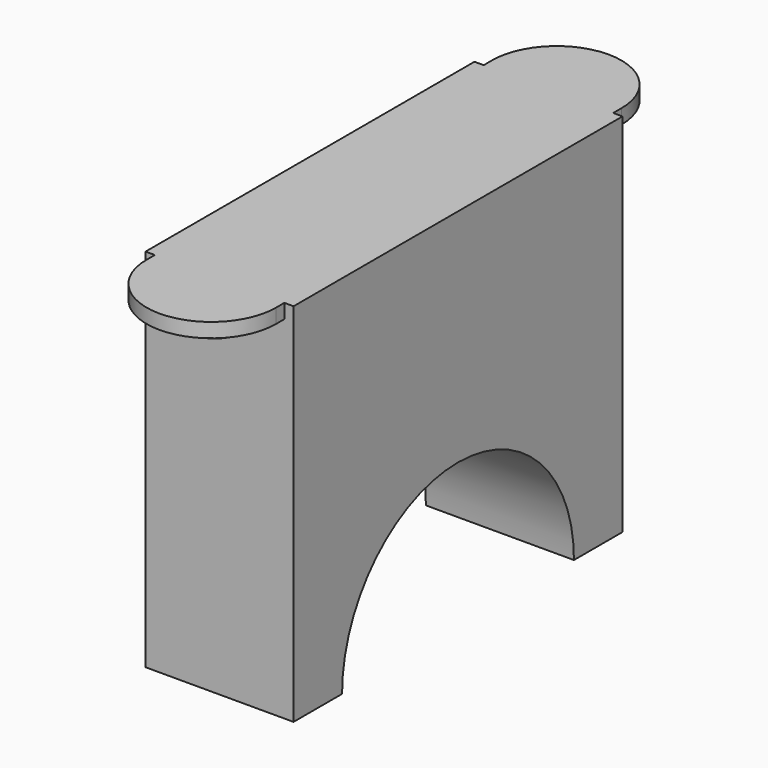
from build123d import *

# Parameters (mm, degrees)
F0_W      = 36
F0_H      = 100
F1_DEPTH  = 89
F2_R      = 10.25
F3_DEPTH  = 25
F4_R      = 35.25
F5_DEPTH  = 27.5
F6_R      = 15.75
F7_DEPTH  = 3.5
F8_W      = 31.5
F8_H      = 105
F9_DEPTH  = 3.5
F10_R     = 8
F11_DEPTH = 8
F13_D     = 6.7564
F13_DEPTH = 26
F13_TIP   = 2.0298273432
F15_D     = 6.7564
F15_DEPTH = 26
F15_TIP   = 2.0298273432


with BuildPart() as f1:
    # F0 (on Top) → F1 (new body)
    with BuildSketch(Plane.XY):
        Rectangle(F0_W, F0_H)
    extrude(amount=F1_DEPTH)

    # F2 (on Front) → F3 (cut, symmetric)
    with BuildSketch(Plane.XZ):
        Circle(F2_R)
    extrude(amount=F3_DEPTH, both=True, mode=Mode.SUBTRACT)

    # F4 (on Right) → F5 (cut, symmetric)
    with BuildSketch(Plane.YZ):
        Circle(F4_R)
    extrude(amount=F5_DEPTH, both=True, mode=Mode.SUBTRACT)

    # F6 (on face) → F7 (join)
    with BuildSketch(Plane.XY.offset(89)):
        with Locations((0, 52.5)):
            Circle(F6_R)
        with Locations((0, -52.5)):
            Circle(F6_R)
    extrude(amount=-F7_DEPTH)

    # F8 (on face) → F9 (join)
    with BuildSketch(Plane.XY.offset(89)):
        Rectangle(F8_W, F8_H)
    extrude(amount=-F9_DEPTH)

    # F10 (on face) → F11 (join)
    with BuildSketch(Plane.XY.offset(89)):
        with Locations((0, 51.5)):
            Circle(F10_R)
        with Locations((0, -51.5)):
            Circle(F10_R)
    extrude(amount=-F11_DEPTH)

    # F13
    with Locations(Plane(origin=(0, 0, 0), x_dir=(1, 0, 0), z_dir=(0, 0, -1))):
        with Locations((0, 42.625)):
            Hole(F13_D / 2, depth=F13_DEPTH)
            with Locations((0, 0, -(F13_DEPTH + F13_TIP / 2))):  # 118° drill point
                Cone(0, F13_D / 2, F13_TIP, mode=Mode.SUBTRACT)

    # F15
    with Locations(Plane(origin=(0, 0, 0), x_dir=(1, 0, 0), z_dir=(0, 0, -1))):
        with Locations((0, -42.625)):
            Hole(F15_D / 2, depth=F15_DEPTH)
            with Locations((0, 0, -(F15_DEPTH + F15_TIP / 2))):  # 118° drill point
                Cone(0, F15_D / 2, F15_TIP, mode=Mode.SUBTRACT)


solid = f1.part
